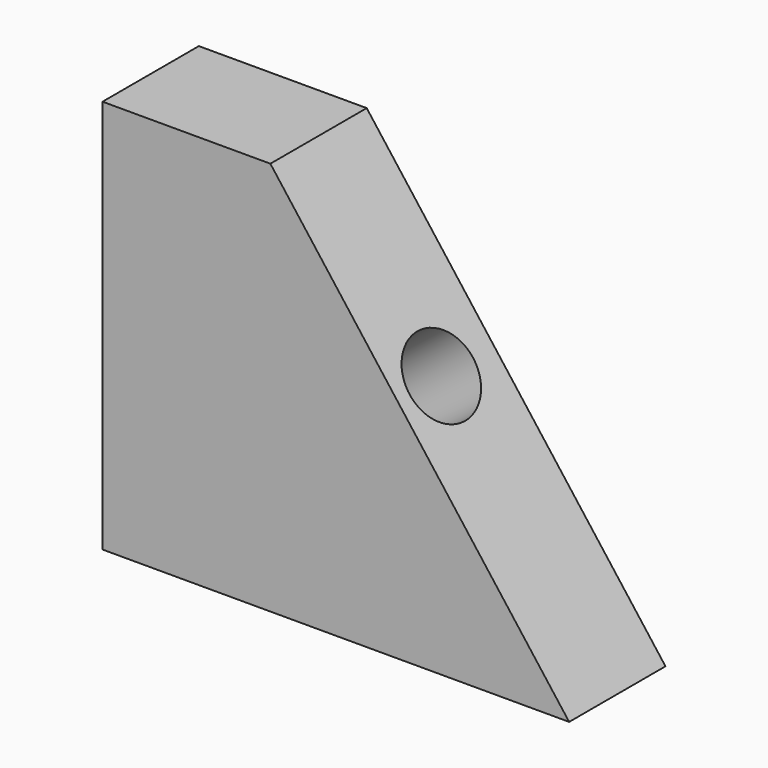
from build123d import *

# Parameters (mm, degrees)
F1_DEPTH      = 25.4
F2_R          = 8.3702798741
F3_DEPTH      = 25.4
F3_DEPTH_BACK = 25.4


with BuildPart() as f1:
    # F0 (on Front) → F1 (new body)
    with BuildSketch(Plane.XZ):
        Polygon((-13.9694791287, 51.1672906578), (-49.380492419, 51.1672906578), (-49.380492419, -31.9998562336), (49.0556173027, -31.9998562336), align=None)
    extrude(amount=F1_DEPTH)

    # F2 (on face) → F3 (cut, two sides)
    with BuildSketch(Plane(origin=(15.7568757704, 0, 11.9407560799), x_dir=(0, 1, 0), z_dir=(0.7970013524, 0, 0.6039775196))) as f3_sk:
        with Locations((-13.8614680618, 4.7992561013)):
            Circle(F2_R)
    extrude(amount=-F3_DEPTH, mode=Mode.SUBTRACT)
    extrude(f3_sk.sketch, amount=F3_DEPTH_BACK, mode=Mode.SUBTRACT)


solid = f1.part
